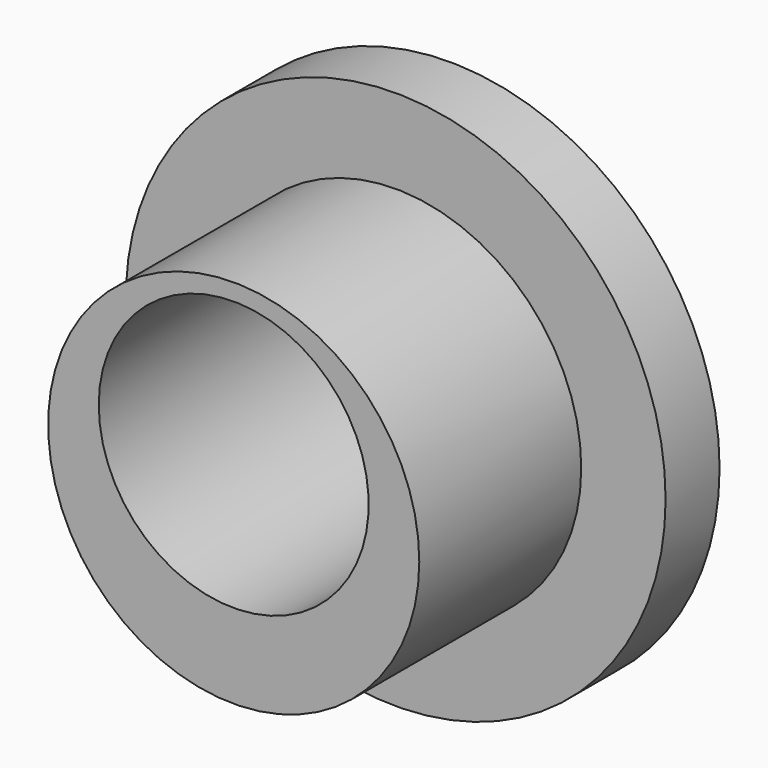
from build123d import *

# Parameters (mm, degrees)
F0_R     = 12.7
F0_R_2   = 8.73125
F1_DEPTH = 3.175
F2_R     = 8.73125
F3_DEPTH = 9.525
F5_D     = 12.7


with BuildPart() as f1:
    # F0 (on Front) → F1 (new body)
    with BuildSketch(Plane.XZ):
        Circle(F0_R)
        Circle(F0_R_2, mode=Mode.SUBTRACT)
        Circle(F0_R_2)
    extrude(amount=F1_DEPTH)

    # F2 (on face) → F3 (join)
    with BuildSketch(Plane.XZ.offset(3.175)):
        Circle(F2_R)
    extrude(amount=F3_DEPTH)

    # F5 (through all)
    with Locations(Plane.XZ.offset(12.7)):
        with Locations((0, 1.5875)):
            Hole(F5_D / 2)


solid = f1.part
